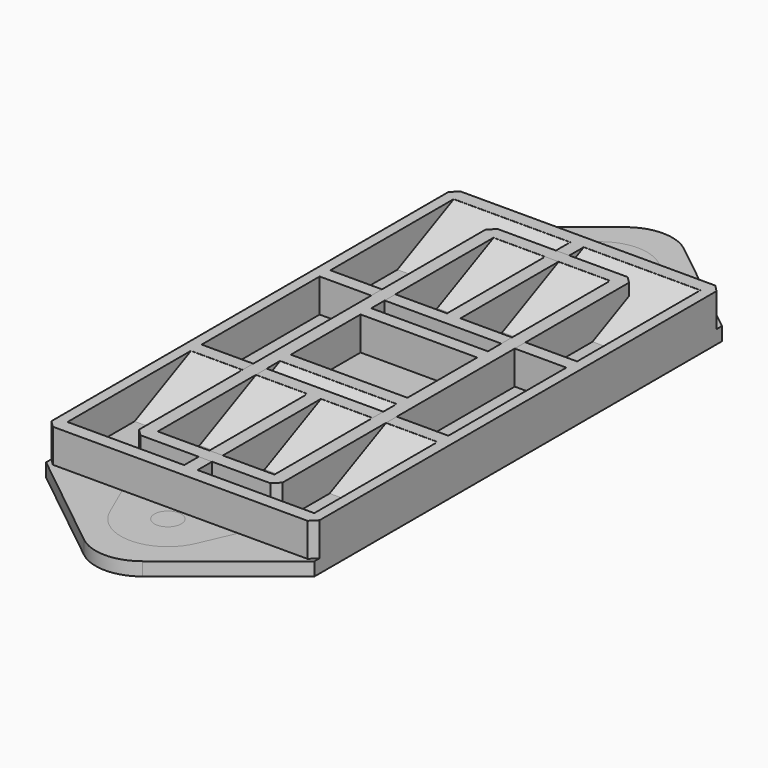
from build123d import *

# Parameters (mm, degrees)
SKETCH_R           = 2
PAD_DEPTH          = 7
SKETCH001_W        = 17.4
SKETCH001_H        = 23
SKETCH001_W_2      = 40
SKETCH001_H_2      = 14
SKETCH001_W_3      = 36.8
SKETCH001_H_3      = 22
POCKET_DEPTH       = 5
CHAMFER_1_SIZE2    = 10.5
CHAMFER_1_SIZE     = 4.98
CHAMFER_2_SIZE2    = 10.5
CHAMFER_2_SIZE     = 4.98
CHAMFER_3_SIZE2    = 10.5
CHAMFER_3_SIZE     = 4.98
CHAMFER_4_SIZE2    = 10.5
CHAMFER_4_SIZE     = 4.98
CHAMFER001_SIZE    = 1
SKETCH002_R        = 2
PAD001_DEPTH       = 7
SKETCH003_W        = 21.4
SKETCH003_H        = 14
SKETCH003_W_2      = 17.4
SKETCH003_H_2      = 22.8
SKETCH003_H_3      = 13
POCKET001_DEPTH    = 5
CHAMFER002_1_SIZE2 = 10.5
CHAMFER002_1_SIZE  = 4.98
CHAMFER002_2_SIZE2 = 10.5
CHAMFER002_2_SIZE  = 4.98
CHAMFER003_SIZE    = 1


with BuildPart() as obj1:
    # Sketch → Pad (new body)
    with BuildSketch(Plane.XY):
        with BuildLine():
            Line((20, 38), (20, -38))
            Line((4.365256, -50.47216), (20, -38))
            ThreePointArc((-4.365256, -50.47216), (0, -52), (4.365256, -50.47216))
            Line((-4.365256, -50.47216), (-20, -38))
            Line((-20, -38), (-20, 38))
            Line((-4.365256, 50.47216), (-20, 38))
            ThreePointArc((4.365256, 50.47216), (0, 52), (-4.365256, 50.47216))
            Line((4.365256, 50.47216), (20, 38))
        make_face()
        with Locations((0, -45)):
            Circle(SKETCH_R, mode=Mode.SUBTRACT)
        with Locations((0, 45)):
            Circle(SKETCH_R, mode=Mode.SUBTRACT)
        Circle(SKETCH_R, mode=Mode.SUBTRACT)
    extrude(amount=PAD_DEPTH)

    # Sketch001 → Pocket (cut)
    with BuildSketch(Plane.XY.offset(7)):
        with Locations((-9.7, -24.5)):
            Rectangle(SKETCH001_W, SKETCH001_H)
        with Locations((9.7, -24.5)):
            Rectangle(SKETCH001_W, SKETCH001_H)
        with Locations((0, 45)):
            Rectangle(SKETCH001_W_2, SKETCH001_H_2)
        with Locations((0, -45)):
            Rectangle(SKETCH001_W_2, SKETCH001_H_2)
        with Locations((-9.7, 24.5)):
            Rectangle(SKETCH001_W, SKETCH001_H)
        with Locations((9.7, 24.5)):
            Rectangle(SKETCH001_W, SKETCH001_H)
        Rectangle(SKETCH001_W_3, SKETCH001_H_3)
    extrude(amount=-POCKET_DEPTH, mode=Mode.SUBTRACT)

    # Chamfer 1
    chamfer_1_edges = [obj1.edges().sort_by_distance(p)[0] for p in [
        (-9.7, -13, 2),
    ]]
    chamfer_1_side = obj1.faces().sort_by_distance((-9.7, -13, 4.5))[0]
    chamfer(chamfer_1_edges, length=CHAMFER_1_SIZE, length2=CHAMFER_1_SIZE2, reference=chamfer_1_side)

    # Chamfer 2
    chamfer_2_edges = [obj1.edges().sort_by_distance(p)[0] for p in [
        (9.7, -13, 2),
    ]]
    chamfer_2_side = obj1.faces().sort_by_distance((9.7, -13, 4.5))[0]
    chamfer(chamfer_2_edges, length=CHAMFER_2_SIZE, length2=CHAMFER_2_SIZE2, reference=chamfer_2_side)

    # Chamfer 3
    chamfer_3_edges = [obj1.edges().sort_by_distance(p)[0] for p in [
        (9.7, 36, 2),
    ]]
    chamfer_3_side = obj1.faces().sort_by_distance((9.7, 36, 4.5))[0]
    chamfer(chamfer_3_edges, length=CHAMFER_3_SIZE, length2=CHAMFER_3_SIZE2, reference=chamfer_3_side)

    # Chamfer 4
    chamfer_4_edges = [obj1.edges().sort_by_distance(p)[0] for p in [
        (-9.7, 36, 2),
    ]]
    chamfer_4_side = obj1.faces().sort_by_distance((-9.7, 36, 4.5))[0]
    chamfer(chamfer_4_edges, length=CHAMFER_4_SIZE, length2=CHAMFER_4_SIZE2, reference=chamfer_4_side)

    # Chamfer001
    chamfer001_edges = [obj1.edges().sort_by_distance(p)[0] for p in [
        (-20, 38, 4.5),
        (20, 38, 4.5),
        (20, -38, 4.5),
        (-20, -38, 4.5),
    ]]
    chamfer(chamfer001_edges, length=CHAMFER001_SIZE)


with BuildPart() as obj2:
    # Sketch002 → Pad001 (new body)
    with BuildSketch(Plane.XY):
        with BuildLine():
            Line((10.7, 33.3), (10.7, -33.3))
            Line((6.413848, -43.104025), (10.7, -33.3))
            ThreePointArc((-6.413848, -43.104025), (0, -47.3), (6.413848, -43.104025))
            Line((-6.413848, -43.104025), (-10.7, -33.3))
            Line((-10.7, -33.3), (-10.7, 33.3))
            Line((-6.413848, 43.104025), (-10.7, 33.3))
            ThreePointArc((6.413848, 43.104025), (0, 47.3), (-6.413848, 43.104025))
            Line((6.413848, 43.104025), (10.7, 33.3))
        make_face()
        with Locations((0, 40.3)):
            Circle(SKETCH002_R, mode=Mode.SUBTRACT)
        with Locations((0, -40.3)):
            Circle(SKETCH002_R, mode=Mode.SUBTRACT)
    extrude(amount=PAD001_DEPTH)

    # Sketch003 → Pocket001 (cut)
    with BuildSketch(Plane.XY.offset(7)):
        with Locations((0, 40.3)):
            Rectangle(SKETCH003_W, SKETCH003_H)
        with Locations((0, -40.3)):
            Rectangle(SKETCH003_W, SKETCH003_H)
        with Locations((0, 19.9)):
            Rectangle(SKETCH003_W_2, SKETCH003_H_2)
        with Locations((0, -19.9)):
            Rectangle(SKETCH003_W_2, SKETCH003_H_2)
        Rectangle(SKETCH003_W_2, SKETCH003_H_3)
    extrude(amount=-POCKET001_DEPTH, mode=Mode.SUBTRACT)

    # Chamfer002 1
    chamfer002_1_edges = [obj2.edges().sort_by_distance(p)[0] for p in [
        (0, -8.5, 2),
    ]]
    chamfer002_1_side = obj2.faces().sort_by_distance((0, -8.5, 4.5))[0]
    chamfer(chamfer002_1_edges, length=CHAMFER002_1_SIZE, length2=CHAMFER002_1_SIZE2, reference=chamfer002_1_side)

    # Chamfer002 2
    chamfer002_2_edges = [obj2.edges().sort_by_distance(p)[0] for p in [
        (0, 31.3, 2),
    ]]
    chamfer002_2_side = obj2.faces().sort_by_distance((0, 31.3, 4.5))[0]
    chamfer(chamfer002_2_edges, length=CHAMFER002_2_SIZE, length2=CHAMFER002_2_SIZE2, reference=chamfer002_2_side)

    # Chamfer003
    chamfer003_edges = [obj2.edges().sort_by_distance(p)[0] for p in [
        (10.7, -33.3, 4.5),
        (-10.7, -33.3, 4.5),
        (10.7, 33.3, 4.5),
        (-10.7, 33.3, 4.5),
    ]]
    chamfer(chamfer003_edges, length=CHAMFER003_SIZE)


solid = Compound([obj1.part, obj2.part])
